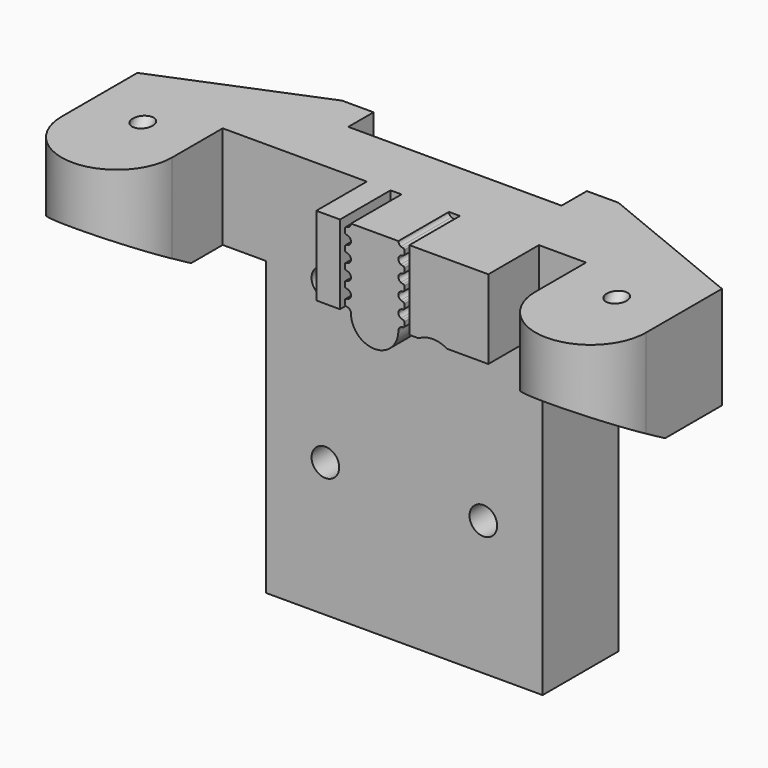
from build123d import *

# Parameters (mm, degrees)
F1_DEPTH = 50
F2_DEPTH = 13
F4_DEPTH = 74.001
F5_R     = 1.25
F6_DEPTH = 15
F7_W     = 3
F7_H     = 10
F8_DEPTH = 8
F7_R     = 1.75
F9_DEPTH = 25


with BuildPart() as f1:
    # F0 (on Top) → F1 (new body)
    with BuildSketch(Plane.XY):
        Polygon((-17.5, 12), (-17.5, 0), (0, 0), (17.5, 0), (17.5, 12), (13.5, 12), (13.5, 8), (-13.5, 8), (-13.5, 12), align=None)
    extrude(amount=-F1_DEPTH)

    # F0 (on Top) → F2 (join)
    with BuildSketch(Plane.XY):
        with BuildLine():
            Line((-37, 0), (-37, -8))
            ThreePointArc((-37, -8), (-30, -15), (-23, -8))
            Line((-23, -8), (-23, 0))
            Line((-23, 0), (-17.5, 0))
            Line((-17.5, 0), (-17.5, 12))
            Line((-17.5, 12), (-37, 4))
            Line((-37, 4), (-37, 0))
        make_face()
        with BuildLine():
            Line((17.5, 12), (17.5, 0))
            Line((17.5, 0), (23, 0))
            Line((23, 0), (23, -8))
            ThreePointArc((23, -8), (30, -15), (37, -8))
            Line((37, -8), (37, 0))
            Line((37, 0), (37, 4))
            Line((37, 4), (17.5, 12))
        make_face()
    extrude(amount=-F2_DEPTH)

    # F3 (on face) → F4 (cut, through all)
    with BuildSketch(Plane(origin=(-37, 0, 0), x_dir=(0, -1, 0), z_dir=(-1, 0, 0))):
        Polygon((8, -11.267949), (8, -13), (15, -13), (15, -7.226497), align=None)
        Polygon((5, -13), (8, -13), (8, -11.267949), align=None)
    extrude(amount=-F4_DEPTH, mode=Mode.SUBTRACT)

    # F5 (on face) → F6 (cut)
    with BuildSketch(Plane(origin=(0, -6.879165, -11.915064), x_dir=(1, 0, 0), z_dir=(0, -0.5, -0.866025))):
        with Locations((-30, 3.377132)):
            Circle(F5_R)
        with Locations((30, 3.377132)):
            Circle(F5_R)
    extrude(amount=-F6_DEPTH, mode=Mode.SUBTRACT)

    # F7 (on face) → F8 (join)
    with BuildSketch(Plane.XZ):
        with BuildLine():
            Line((17.03, 0), (7.03, 0))
            Line((7.03, 0), (7.03, -10))
            Line((7.03, -10), (8.197224, -10))
            ThreePointArc((8.197224, -10), (10, -9.5), (11.802776, -10))
            Line((11.802776, -10), (17.03, -10))
            Line((17.03, -10), (17.03, 0))
        make_face()
        with BuildLine():
            Line((6.39, -1.259825), (6.39, -1))
            Line((6.39, -1), (6.39, -0.740175))
            ThreePointArc((6.39, -0.740175), (6.352771, -0.641268), (6.259565, -0.591457))
            ThreePointArc((6.259565, -0.591457), (6.101938, -0.557612), (5.951798, -0.498876))
            ThreePointArc((5.951798, -0.498876), (5.724361, -0.294149), (5.64, 0))
            Line((5.64, 0), (-0.36, 0))
            ThreePointArc((-0.36, 0), (-0.444361, -0.294149), (-0.671798, -0.498876))
            ThreePointArc((-0.671798, -0.498876), (-0.821938, -0.557612), (-0.979565, -0.591457))
            ThreePointArc((-0.979565, -0.591457), (-1.072771, -0.641268), (-1.11, -0.740175))
            Line((-1.11, -0.740175), (-1.11, -1))
            Line((-1.11, -1), (-1.11, -1.259825))
            ThreePointArc((-1.11, -1.259825), (-1.072771, -1.358732), (-0.979565, -1.408543))
            ThreePointArc((-0.979565, -1.408543), (-0.821938, -1.442388), (-0.671798, -1.501124))
            ThreePointArc((-0.671798, -1.501124), (-0.444361, -1.705851), (-0.36, -2))
            ThreePointArc((-0.36, -2), (-0.444361, -2.294149), (-0.671798, -2.498876))
            ThreePointArc((-0.671798, -2.498876), (-0.821938, -2.557612), (-0.979565, -2.591457))
            ThreePointArc((-0.979565, -2.591457), (-1.072771, -2.641268), (-1.11, -2.740175))
            Line((-1.11, -2.740175), (-1.11, -3))
            Line((-1.11, -3), (-1.11, -3.259825))
            ThreePointArc((-1.11, -3.259825), (-1.072771, -3.358732), (-0.979565, -3.408543))
            ThreePointArc((-0.979565, -3.408543), (-0.821938, -3.442388), (-0.671798, -3.501124))
            ThreePointArc((-0.671798, -3.501124), (-0.444361, -3.705851), (-0.36, -4))
            ThreePointArc((-0.36, -4), (-0.444361, -4.294149), (-0.671798, -4.498876))
            ThreePointArc((-0.671798, -4.498876), (-0.821938, -4.557612), (-0.979565, -4.591457))
            ThreePointArc((-0.979565, -4.591457), (-1.072771, -4.641268), (-1.11, -4.740175))
            Line((-1.11, -4.740175), (-1.11, -5))
            Line((-1.11, -5), (-1.11, -5.259825))
            ThreePointArc((-1.11, -5.259825), (-1.072771, -5.358732), (-0.979565, -5.408543))
            ThreePointArc((-0.979565, -5.408543), (-0.821938, -5.442388), (-0.671798, -5.501124))
            ThreePointArc((-0.671798, -5.501124), (-0.444361, -5.705851), (-0.36, -6))
            ThreePointArc((-0.36, -6), (-0.444361, -6.294149), (-0.671798, -6.498876))
            ThreePointArc((-0.671798, -6.498876), (-0.821938, -6.557612), (-0.979565, -6.591457))
            ThreePointArc((-0.979565, -6.591457), (-1.072771, -6.641268), (-1.11, -6.740175))
            Line((-1.11, -6.740175), (-1.11, -7))
            Line((-1.11, -7), (-1.11, -7.259825))
            ThreePointArc((-1.11, -7.259825), (-1.072771, -7.358732), (-0.979565, -7.408543))
            ThreePointArc((-0.979565, -7.408543), (-0.821938, -7.442388), (-0.671798, -7.501124))
            ThreePointArc((-0.671798, -7.501124), (-0.444361, -7.705851), (-0.36, -8))
            ThreePointArc((-0.36, -8), (-0.444361, -8.294149), (-0.671798, -8.498876))
            ThreePointArc((-0.671798, -8.498876), (-0.821938, -8.557612), (-0.979565, -8.591457))
            ThreePointArc((-0.979565, -8.591457), (-1.072771, -8.641268), (-1.11, -8.740175))
            Line((-1.11, -8.740175), (-1.11, -9))
            Line((-1.11, -9), (-1.11, -9.259825))
            ThreePointArc((-1.11, -9.259825), (-1.072771, -9.358732), (-0.979565, -9.408543))
            ThreePointArc((-0.979565, -9.408543), (-0.821938, -9.442388), (-0.671798, -9.501124))
            ThreePointArc((-0.671798, -9.501124), (-0.444361, -9.705851), (-0.36, -10))
            ThreePointArc((-0.36, -10), (2.64, -13), (5.64, -10))
            ThreePointArc((5.64, -10), (5.724361, -9.705851), (5.951798, -9.501124))
            ThreePointArc((5.951798, -9.501124), (6.101938, -9.442388), (6.259565, -9.408543))
            ThreePointArc((6.259565, -9.408543), (6.352771, -9.358732), (6.39, -9.259825))
            Line((6.39, -9.259825), (6.39, -9))
            Line((6.39, -9), (6.39, -8.740175))
            ThreePointArc((6.39, -8.740175), (6.352771, -8.641268), (6.259565, -8.591457))
            ThreePointArc((6.259565, -8.591457), (6.101938, -8.557612), (5.951798, -8.498876))
            ThreePointArc((5.951798, -8.498876), (5.724361, -8.294149), (5.64, -8))
            ThreePointArc((5.64, -8), (5.724361, -7.705851), (5.951798, -7.501124))
            ThreePointArc((5.951798, -7.501124), (6.101938, -7.442388), (6.259565, -7.408543))
            ThreePointArc((6.259565, -7.408543), (6.352771, -7.358732), (6.39, -7.259825))
            Line((6.39, -7.259825), (6.39, -7))
            Line((6.39, -7), (6.39, -6.740175))
            ThreePointArc((6.39, -6.740175), (6.352771, -6.641268), (6.259565, -6.591457))
            ThreePointArc((6.259565, -6.591457), (6.101938, -6.557612), (5.951798, -6.498876))
            ThreePointArc((5.951798, -6.498876), (5.724361, -6.294149), (5.64, -6))
            ThreePointArc((5.64, -6), (5.724361, -5.705851), (5.951798, -5.501124))
            ThreePointArc((5.951798, -5.501124), (6.101938, -5.442388), (6.259565, -5.408543))
            ThreePointArc((6.259565, -5.408543), (6.352771, -5.358732), (6.39, -5.259825))
            Line((6.39, -5.259825), (6.39, -5))
            Line((6.39, -5), (6.39, -4.740175))
            ThreePointArc((6.39, -4.740175), (6.352771, -4.641268), (6.259565, -4.591457))
            ThreePointArc((6.259565, -4.591457), (6.101938, -4.557612), (5.951798, -4.498876))
            ThreePointArc((5.951798, -4.498876), (5.724361, -4.294149), (5.64, -4))
            ThreePointArc((5.64, -4), (5.724361, -3.705851), (5.951798, -3.501124))
            ThreePointArc((5.951798, -3.501124), (6.101938, -3.442388), (6.259565, -3.408543))
            ThreePointArc((6.259565, -3.408543), (6.352771, -3.358732), (6.39, -3.259825))
            Line((6.39, -3.259825), (6.39, -3))
            Line((6.39, -3), (6.39, -2.740175))
            ThreePointArc((6.39, -2.740175), (6.352771, -2.641268), (6.259565, -2.591457))
            ThreePointArc((6.259565, -2.591457), (6.101938, -2.557612), (5.951798, -2.498876))
            ThreePointArc((5.951798, -2.498876), (5.724361, -2.294149), (5.64, -2))
            ThreePointArc((5.64, -2), (5.724361, -1.705851), (5.951798, -1.501124))
            ThreePointArc((5.951798, -1.501124), (6.101938, -1.442388), (6.259565, -1.408543))
            ThreePointArc((6.259565, -1.408543), (6.352771, -1.358732), (6.39, -1.259825))
        make_face()
        with Locations((-3.25, -5)):
            Rectangle(F7_W, F7_H)
    extrude(amount=F8_DEPTH)

    # F7 (on face) → F9 (cut)
    with BuildSketch(Plane.XZ):
        with Locations((-10, -13)):
            Circle(F7_R)
        with Locations((10, -13)):
            Circle(F7_R)
        with Locations((10, -33)):
            Circle(F7_R)
        with Locations((-10, -33)):
            Circle(F7_R)
    extrude(amount=-F9_DEPTH, mode=Mode.SUBTRACT)


solid = f1.part
